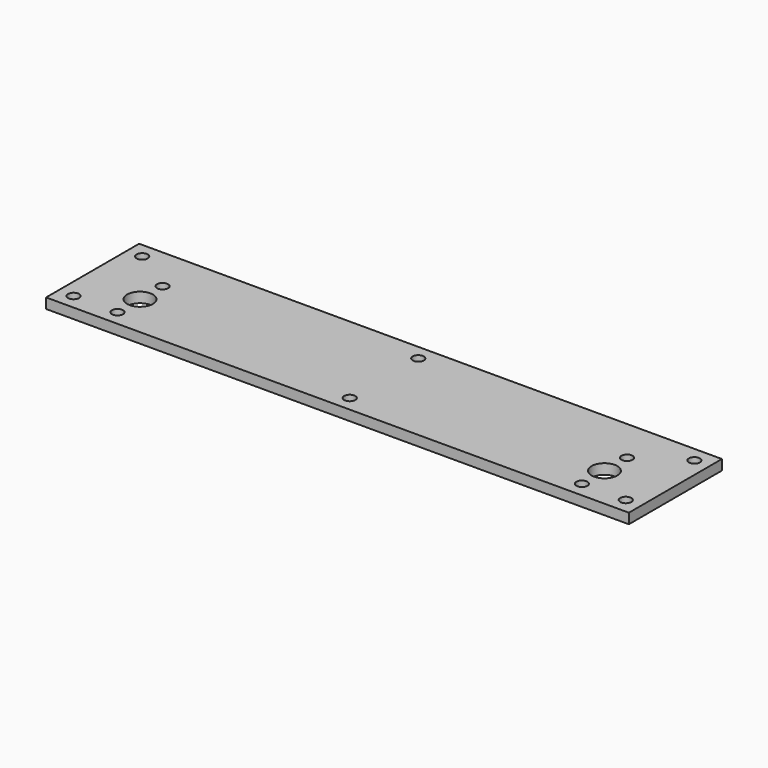
from build123d import *

# Parameters (mm, degrees)
F0_W     = 181.36715
F0_H     = 36.195
F0_R     = 1.7272
F0_R_2   = 4
F1_DEPTH = 3.175


with BuildPart() as f1:
    # F0 (on Top) → F1 (new body)
    with BuildSketch(Plane.XY):
        Rectangle(F0_W, F0_H)
        with Locations((-85.921075, -13.335)):
            Circle(F0_R, mode=Mode.SUBTRACT)
        with Locations((-72.268575, -13.335)):
            Circle(F0_R, mode=Mode.SUBTRACT)
        with Locations((-72.268575, -4.572495)):
            Circle(F0_R_2, mode=Mode.SUBTRACT)
        with Locations((0, -13.335)):
            Circle(F0_R, mode=Mode.SUBTRACT)
        with Locations((72.268575, -13.335)):
            Circle(F0_R, mode=Mode.SUBTRACT)
        with Locations((85.921075, -13.335)):
            Circle(F0_R, mode=Mode.SUBTRACT)
        with Locations((72.268575, -4.572495)):
            Circle(F0_R_2, mode=Mode.SUBTRACT)
        with Locations((-72.268575, 4.190009)):
            Circle(F0_R, mode=Mode.SUBTRACT)
        with Locations((-85.921075, 13.335)):
            Circle(F0_R, mode=Mode.SUBTRACT)
        with Locations((72.268575, 4.190009)):
            Circle(F0_R, mode=Mode.SUBTRACT)
        with Locations((0, 13.335)):
            Circle(F0_R, mode=Mode.SUBTRACT)
        with Locations((85.921075, 13.335)):
            Circle(F0_R, mode=Mode.SUBTRACT)
    extrude(amount=F1_DEPTH)


solid = f1.part
